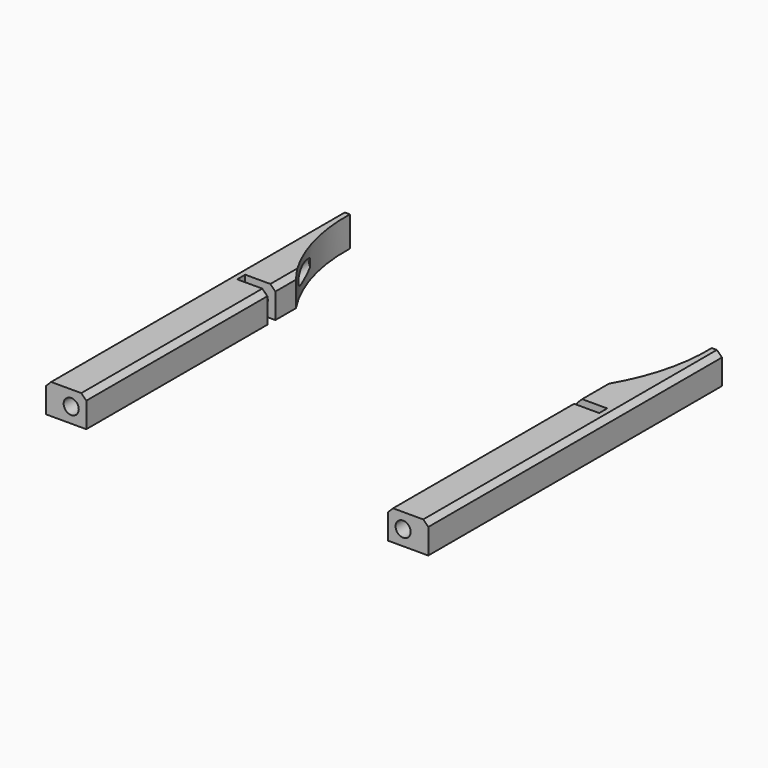
from build123d import *

# Parameters (mm, degrees)
CYLINDER2684_R     = 1.5
CYLINDER2684_DEPTH = 100
CYLINDER2683_R     = 1.5
CYLINDER2683_DEPTH = 100
BOX916_W           = 6
BOX916_H           = 2
BOX916_DEPTH       = 6
BOX_W              = 6
BOX_H              = 2
BOX_DEPTH          = 6
BOX883_W           = 15
BOX883_H           = 13.5
BOX883_DEPTH       = 32
BOX884_W           = 15
BOX884_H           = 13.5
BOX884_DEPTH       = 32
CYLINDER2672_R     = 36
CYLINDER2672_DEPTH = 16
BOX908_W           = 8
BOX908_H           = 80
BOX908_DEPTH       = 6
CHAMFER132_SIZE    = 1
CHAMFER139_SIZE    = 1
CYLINDER2674_R     = 36
CYLINDER2674_DEPTH = 16
BOX909_W           = 8
BOX909_H           = 80
BOX909_DEPTH       = 6
CHAMFER133_SIZE    = 1
CHAMFER135_SIZE    = 1


with BuildPart() as obj1:
    # Cylinder2684 → Cylinder2684 (new body)
    with BuildSketch(Plane(origin=(33, -10, 8), x_dir=(1, 0, 0), z_dir=(0, -1, 0))):
        Circle(CYLINDER2684_R)
    extrude(amount=CYLINDER2684_DEPTH)


with BuildPart() as compound1194:
    # Cylinder2683 → Cylinder2683 (new body)
    with BuildSketch(Plane(origin=(-33, -10, 8), x_dir=(1, 0, 0), z_dir=(0, -1, 0))):
        Circle(CYLINDER2683_R)
    extrude(amount=CYLINDER2683_DEPTH)

    # Compound1194: union obj1
    add(obj1.part)


with BuildPart() as compound1194_1:
    # Compound1194 placement: moved
    add(compound1194.part.moved(Location((0, -1, 0))))


with BuildPart() as krychle915:
    # Box916 → Box916 (new body)
    with BuildSketch(Plane(origin=(-36, -27, 5), x_dir=(1, 0, 0), z_dir=(0, 0, 1))):
        with Locations((3, 1)):
            Rectangle(BOX916_W, BOX916_H)
    extrude(amount=BOX916_DEPTH)


with BuildPart() as compound1191:
    # Box → Box (new body)
    with BuildSketch(Plane(origin=(30, -27, 5), x_dir=(1, 0, 0), z_dir=(0, 0, 1))):
        with Locations((3, 1)):
            Rectangle(BOX_W, BOX_H)
    extrude(amount=BOX_DEPTH)

    # Compound1191: union Krychle915
    add(krychle915.part)


with BuildPart() as krychle882:
    # Box883 → Box883 (new body)
    with BuildSketch(Plane(origin=(-38, -68, 5), x_dir=(1, 0, 0), z_dir=(0, 0, 1))):
        with Locations((7.5, 6.75)):
            Rectangle(BOX883_W, BOX883_H)
    extrude(amount=BOX883_DEPTH)


with BuildPart() as compound:
    # Box884 → Box884 (new body)
    with BuildSketch(Plane(origin=(23, -68, 5), x_dir=(1, 0, 0), z_dir=(0, 0, 1))):
        with Locations((7.5, 6.75)):
            Rectangle(BOX884_W, BOX884_H)
    extrude(amount=BOX884_DEPTH)

    # Compound: union Krychle882
    add(krychle882.part)


with BuildPart() as compound_1:
    # Compound placement: moved
    add(compound.part.moved(Location((0, -17.5, 0))))


with BuildPart() as obj2:
    # Cylinder2672 → Cylinder2672 (new body)
    with BuildSketch(Plane.XY):
        Circle(CYLINDER2672_R)
    extrude(amount=CYLINDER2672_DEPTH)


with BuildPart() as cut994:
    # Box908 → Box908 (new body)
    with BuildSketch(Plane(origin=(-38, -79, 5), x_dir=(1, 0, 0), z_dir=(0, 0, 1))):
        with Locations((4, 40)):
            Rectangle(BOX908_W, BOX908_H)
    extrude(amount=BOX908_DEPTH)

    # Chamfer132
    chamfer132_edges = [cut994.edges().sort_by_distance(p)[0] for p in [
        (-38, -39, 11),
    ]]
    chamfer(chamfer132_edges, length=CHAMFER132_SIZE)

    # Chamfer139
    chamfer139_edges = [cut994.edges().sort_by_distance(p)[0] for p in [
        (-30, -39, 11),
    ]]
    chamfer(chamfer139_edges, length=CHAMFER139_SIZE)

    # Cut994: cut obj2
    add(obj2.part, mode=Mode.SUBTRACT)


with BuildPart() as obj3:
    # Cylinder2674 → Cylinder2674 (new body)
    with BuildSketch(Plane.XY):
        Circle(CYLINDER2674_R)
    extrude(amount=CYLINDER2674_DEPTH)


with BuildPart() as cut1005:
    # Box909 → Box909 (new body)
    with BuildSketch(Plane(origin=(30, -79, 5), x_dir=(1, 0, 0), z_dir=(0, 0, 1))):
        with Locations((4, 40)):
            Rectangle(BOX909_W, BOX909_H)
    extrude(amount=BOX909_DEPTH)

    # Chamfer133
    chamfer133_edges = [cut1005.edges().sort_by_distance(p)[0] for p in [
        (38, -39, 11),
    ]]
    chamfer(chamfer133_edges, length=CHAMFER133_SIZE)

    # Chamfer135
    chamfer135_edges = [cut1005.edges().sort_by_distance(p)[0] for p in [
        (30, -39, 11),
    ]]
    chamfer(chamfer135_edges, length=CHAMFER135_SIZE)

    # Cut996: cut obj3
    add(obj3.part, mode=Mode.SUBTRACT)

    # Compound1185: union Cut994
    add(cut994.part)

    # Cut1002: cut Compound
    add(compound_1.part, mode=Mode.SUBTRACT)

    # Cut1003: cut Compound1191
    add(compound1191.part, mode=Mode.SUBTRACT)

    # Cut1005: cut Compound1194
    add(compound1194_1.part, mode=Mode.SUBTRACT)


solid = cut1005.part
